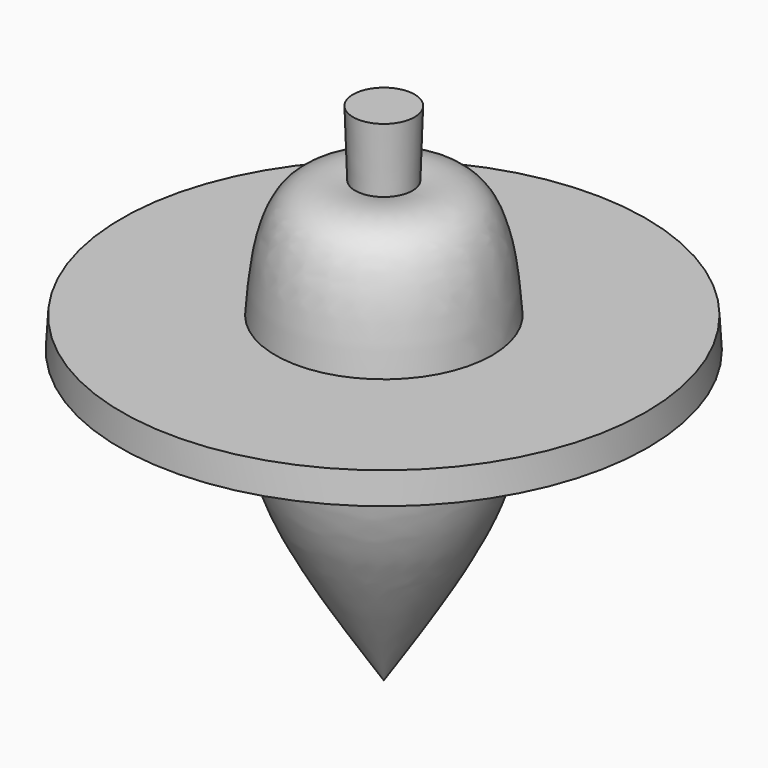
from build123d import *


with BuildPart() as f1:
    # F0 (on Front) → F1 (revolve)
    with BuildSketch(Plane.XZ):
        with BuildLine():
            Line((43.3000769657, 16.6501328058), (17.9000769657, 16.6501328058))
            add(Edge.make_bspline(
                [(17.9000769657, 16.6501328058), (18.0257842821, 14.8832432086), (18.1306804485, 13.1975997659), (18.2031855134, 11.579183663)],
                knots=[0.3774057125, 0.3774057125, 0.3774057125, 0.3774057125, 0.4313380636, 0.4313380636, 0.4313380636, 0.4313380636], degree=3))
            Line((18.2031855134, 11.579183663), (43.6031855134, 11.579183663))
            Line((43.6031855134, 11.579183663), (43.3000769657, 16.6501328058))
        make_face()
        with BuildLine():
            Line((0, 34.4098675769), (0, 0))
            Line((0, 0), (0, -36.4407328852))
            add(Edge.make_bspline(
                [(18.2031855134, 11.579183663), (18.3929844245, 7.3426021977), (18.3194584906, -1.2895432455), (14.2332829901, -14.5721090749), (5.2092980616, -28.4435507072), (0, -36.4407328852)],
                knots=[0.4313380636, 0.4313380636, 0.4313380636, 0.4313380636, 0.5725185663, 0.754092702, 1, 1, 1, 1], degree=3))
            add(Edge.make_bspline(
                [(17.9000769657, 16.6501328058), (18.0257842821, 14.8832432086), (18.1306804485, 13.1975997659), (18.2031855134, 11.579183663)],
                knots=[0.3774057125, 0.3774057125, 0.3774057125, 0.3774057125, 0.4313380636, 0.4313380636, 0.4313380636, 0.4313380636], degree=3))
            add(Edge.make_bspline(
                [(0, 34.4098675769), (4.7283645169, 36.3032494687), (15.9874810549, 37.90486785), (17.4215372761, 23.3762870521), (17.9000769657, 16.6501328058)],
                knots=[0, 0, 0, 0, 0.1720972922, 0.3774057125, 0.3774057125, 0.3774057125, 0.3774057125], degree=3))
        make_face()
    revolve(axis=Axis((0, 0, -1.0154326542), (0, 0, -1)))


with BuildPart() as f1b:
    # F0 (on Front) → F1, piece 2 (revolve)
    with BuildSketch(Plane.XZ):
        Polygon((0, 47.1098675769), (0, 34.4098675769), (4.7283645169, 36.3032494687), (5.08, 47.1098675769), align=None)
    revolve(axis=Axis((0, 0, -1.0154326542), (0, 0, -1)))


solid = Compound([f1.part, f1b.part])
